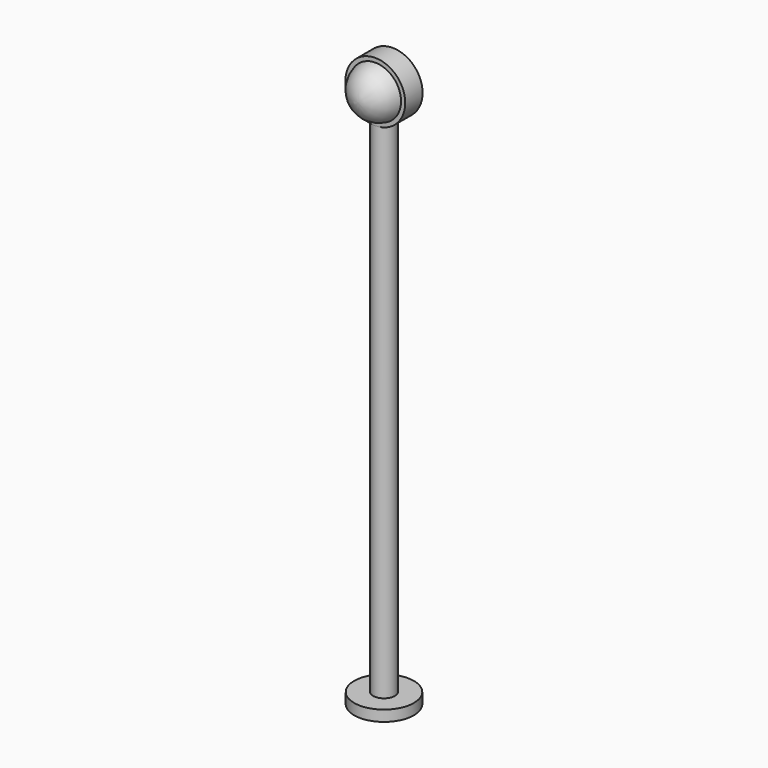
from build123d import *

# Parameters (mm, degrees)
F2_R     = 55
F3_DEPTH = 20


with BuildPart() as f1:
    # F0 (on Right) → F1 (revolve)
    with BuildSketch(Plane.YZ):
        Polygon((-55, 0), (0, 0), (0, 1000), (-20, 1000), (-20, 20), (-55, 20), align=None)
    revolve(axis=Axis((0, 0, 500), (0, 0, -1)))

    # F2 (on Front) → F3 (join, symmetric)
    with BuildSketch(Plane.XZ):
        with Locations((0, 1000)):
            Circle(F2_R)
    extrude(amount=F3_DEPTH, both=True)

    # F4 (on Right) → F5 (revolve)
    with BuildSketch(Plane.YZ):
        with BuildLine():
            Line((-12, 1000), (-12, 1048))
            ThreePointArc((-12, 1048), (-45.941125, 1033.941125), (-60, 1000))
            Line((-60, 1000), (-12, 1000))
        make_face()
    revolve(axis=Axis((0, -36, 1000), (0, 1, 0)))


solid = f1.part
